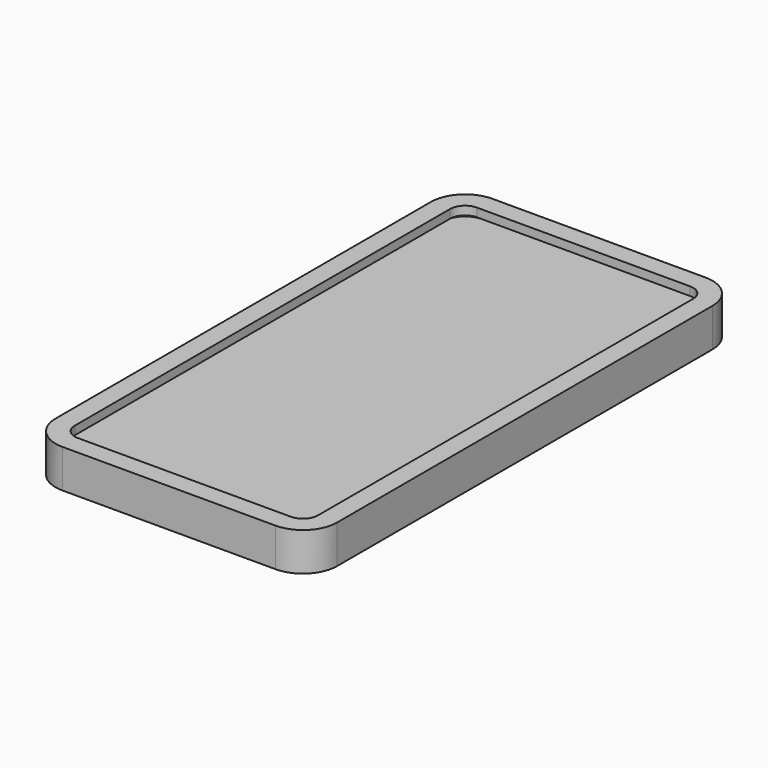
from build123d import *

# Parameters (mm, degrees)
F2_DEPTH = 3
F6_DEPTH = 2


with BuildPart() as f2:
    # F1 (on Top) → F2 (new body)
    with BuildSketch(Plane.XY):
        with BuildLine():
            Line((-25, -60), (25, -60))
            ThreePointArc((25, -60), (28.5355339059, -58.5355339059), (30, -55))
            Line((30, -55), (30, 55))
            ThreePointArc((30, 55), (28.5355339059, 58.5355339059), (25, 60))
            Line((25, 60), (-25, 60))
            ThreePointArc((-25, 60), (-28.5355339059, 58.5355339059), (-30, 55))
            Line((-30, 55), (-30, -55))
            ThreePointArc((-30, -55), (-28.5355339059, -58.5355339059), (-25, -60))
        make_face()
    extrude(amount=F2_DEPTH)


with BuildPart() as f4:
    # F4: sweep along a path in F1
    with BuildLine(Plane.XY) as f4_path:
        Line((31, -55), (31, 0))
        Line((31, 0), (31, 55))
        ThreePointArc((31, 55), (29.2426406871, 59.2426406871), (25, 61))
        Line((25, 61), (-25, 61))
        ThreePointArc((-25, 61), (-29.2426406871, 59.2426406871), (-31, 55))
        Line((-31, 55), (-31, 0))
        Line((-31, 0), (-31, -55))
        ThreePointArc((-31, -55), (-29.2426406871, -59.2426406871), (-25, -61))
        Line((-25, -61), (25, -61))
        ThreePointArc((25, -61), (29.2426406871, -59.2426406871), (31, -55))
    # F3 (on Front) → F4 (sweep)
    with BuildSketch(Plane.XZ):
        Polygon((28.5, 6), (28.5, 4), (31, 4), (31, -1), (28.5, -1), (28.5, -3), (33, -3), (33, 6), align=None)
    sweep(path=f4_path.line)

    # F5 (on face) → F6 (join, through all)
    with BuildSketch(Plane(origin=(0, 0, -3), x_dir=(1, 0, 0), z_dir=(0, 0, -1))):
        with BuildLine():
            ThreePointArc((28.5, 55), (27.4748737342, 57.4748737342), (25, 58.5))
            Line((25, 58.5), (-25, 58.5))
            ThreePointArc((-25, 58.5), (-27.4748737342, 57.4748737342), (-28.5, 55))
            Line((-28.5, 55), (-28.5, -55))
            ThreePointArc((-28.5, -55), (-27.4748737342, -57.4748737342), (-25, -58.5))
            Line((-25, -58.5), (25, -58.5))
            ThreePointArc((25, -58.5), (27.4748737342, -57.4748737342), (28.5, -55))
            Line((28.5, -55), (28.5, 55))
        make_face()
    extrude(amount=-F6_DEPTH)


solid = Compound([f2.part, f4.part])
